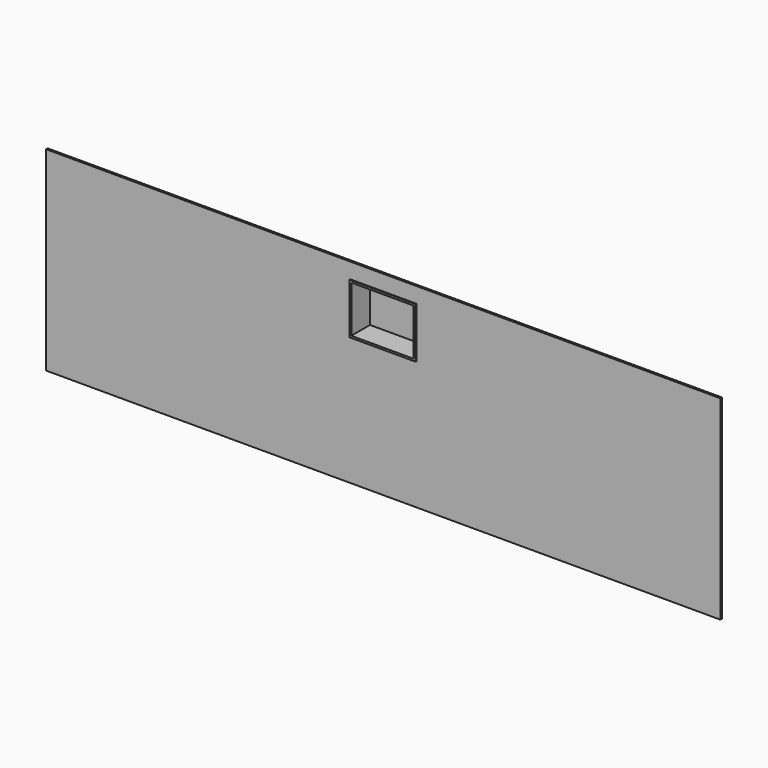
from build123d import *

# Parameters (mm, degrees)
F0_W     = 1098.55
F0_H     = 317.5
F1_DEPTH = 3.175
F2_W     = 107.95
F2_H     = 82.55
F3_DEPTH = 38.1
F4_DEPTH = 1.5875
F5_W     = 101.6
F5_H     = 76.2
F6_DEPTH = 38.1


with BuildPart() as f1:
    # F0 (on Front) → F1 (new body)
    with BuildSketch(Plane.XZ):
        Rectangle(F0_W, F0_H)
    extrude(amount=F1_DEPTH)

    # F2 (on face) → F3 (join)
    with BuildSketch(Plane.XZ.offset(3.175)):
        with Locations((0, 92.075)):
            Rectangle(F2_W, F2_H)
    extrude(amount=-F3_DEPTH)

    # F2 (on face) → F4 (join)
    with BuildSketch(Plane.XZ.offset(3.175)):
        with Locations((0, 92.075)):
            Rectangle(F2_W, F2_H)
    extrude(amount=F4_DEPTH)

    # F5 (on face) → F6 (cut)
    with BuildSketch(Plane.XZ.offset(4.7625)):
        with Locations((0, 92.075)):
            Rectangle(F5_W, F5_H)
    extrude(amount=-F6_DEPTH, mode=Mode.SUBTRACT)


solid = f1.part
